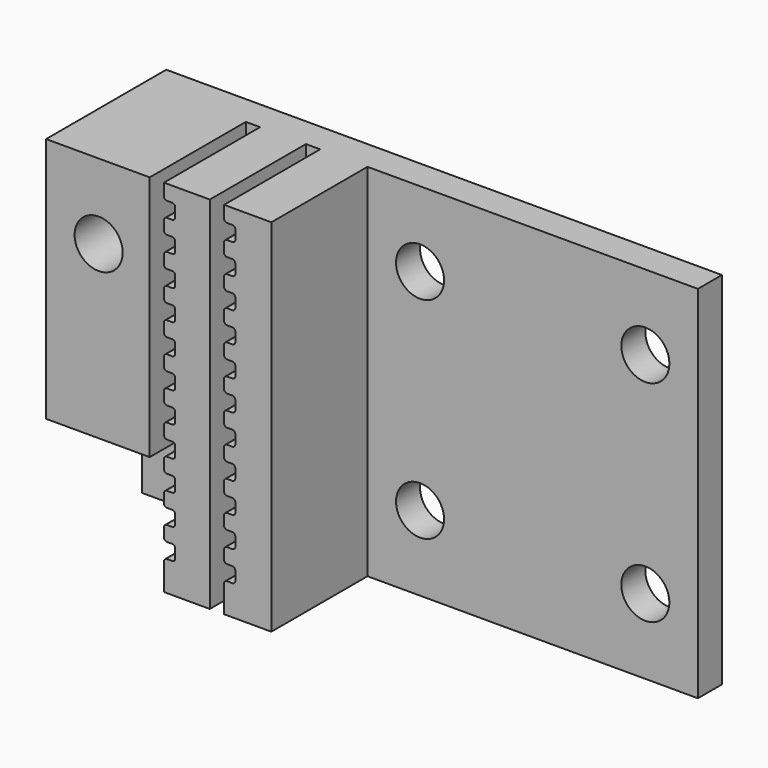
from build123d import *

# Parameters (mm, degrees)
PAD002_DEPTH  = 10
FILLET_R      = 0.2
ARRAY_X_COUNT = 2
ARRAY_X_PITCH = 4
ARRAY_Z_COUNT = 11
ARRAY_Z_PITCH = 2
PAD003_DEPTH  = 10
SKETCH001_R   = 1.6
PAD001_DEPTH  = 8
SKETCH_W      = 37
SKETCH_H      = 24
SKETCH_R      = 1.6
PAD_DEPTH     = 2


with BuildPart() as array:
    # Sketch002 → Pad002 (new body)
    with BuildSketch(Plane.XZ.offset(2)):
        Polygon((-6.65, 12), (-6.65, 11), (-5.9, 11), (-5.9, 10), (-6.65, 10), (-6.65, 9), (-7.6, 9), (-7.6, 12), align=None)
    extrude(amount=PAD002_DEPTH)

    # Fillet
    fillet_edges = [array.edges().sort_by_distance(p)[0] for p in [
        (-6.65, -7, 11),
        (-5.9, -7, 11),
        (-5.9, -7, 10),
        (-6.65, -7, 10),
    ]]
    fillet(fillet_edges, radius=FILLET_R)

    # Array X: Array ×2


with BuildPart() as array_1:
    add(array.part)
    with Locations(*[(-i * ARRAY_X_PITCH, 0, 0) for i in range(1, ARRAY_X_COUNT)]):
        add(array.part)

    # Array Z: Array ×11


with BuildPart() as array_2:
    add(array_1.part)
    with Locations(*[(0, 0, -i * ARRAY_Z_PITCH) for i in range(1, ARRAY_Z_COUNT)]):
        add(array_1.part)


with BuildPart() as fusion:
    # Sketch003 → Pad003 (new body)
    with BuildSketch(Plane.XZ.offset(2)):
        Polygon((-10.65, -10.841792), (-10.65, -12), (-7.6, -12), (-7.6, -10.841792), (-6.65, -10.841792), (-6.65, -12.640937), (-11.6, -12.640937), (-11.6, -10.841792), align=None)
    extrude(amount=PAD003_DEPTH)

    # Fusion: union Array
    add(array_2.part)


with BuildPart() as cut:
    # Sketch001 → Pad001 (new body)
    with BuildSketch(Plane.XZ.offset(2)):
        Polygon((-18.5, 12), (-3.5, 12), (-3.5, -12), (-11.5, -12), (-11.5, -9.6), (-11.5, -4.4), (-18.5, -4.4), align=None)
        with Locations((-15, 7)):
            Circle(SKETCH001_R, mode=Mode.SUBTRACT)
    extrude(amount=PAD001_DEPTH)

    # Cut: cut Fusion
    add(fusion.part, mode=Mode.SUBTRACT)


with BuildPart() as fusion001:
    # Sketch → Pad (new body)
    with BuildSketch(Plane.XZ):
        Rectangle(SKETCH_W, SKETCH_H)
        with Locations((-15, -7)):
            Circle(SKETCH_R, mode=Mode.SUBTRACT)
        with Locations((15, -7)):
            Circle(SKETCH_R, mode=Mode.SUBTRACT)
        with Locations((0, 7)):
            Circle(SKETCH_R, mode=Mode.SUBTRACT)
        with Locations((-15, 7)):
            Circle(SKETCH_R, mode=Mode.SUBTRACT)
        with Locations((15, 7)):
            Circle(SKETCH_R, mode=Mode.SUBTRACT)
        with Locations((0, -7)):
            Circle(SKETCH_R, mode=Mode.SUBTRACT)
    extrude(amount=PAD_DEPTH)

    # Fusion001: union Cut
    add(cut.part)


solid = fusion001.part
